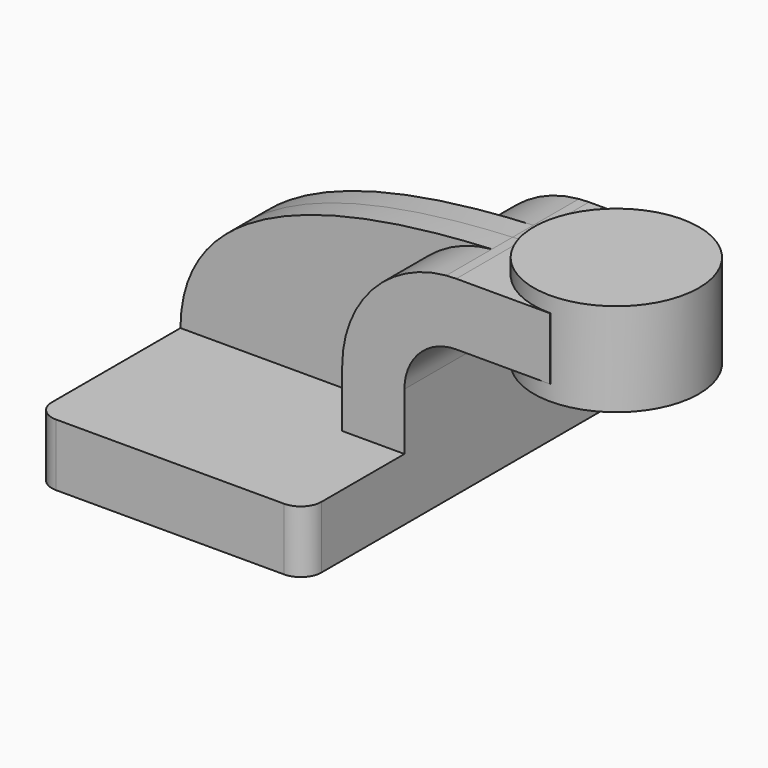
from build123d import *

# Parameters (mm, degrees)
F1_DEPTH = 63.5
F0_W     = 25.5134466434
F0_H     = 19.05
F2_DEPTH = 25.4
F3_DEPTH = 7.9375
F5_R     = 6.35


with BuildPart() as f1:
    # F0 (on Front) → F1 (new body, symmetric)
    with BuildSketch(Plane.XZ):
        Polygon((-41.275, -9.525), (41.275, -9.525), (41.275, 9.525), (22.225, 9.525), (-41.275, 9.525), align=None)
    extrude(amount=F1_DEPTH, both=True)

    # F0 (on Front) → F2 (join, symmetric)
    with BuildSketch(Plane.XZ):
        with BuildLine():
            Line((22.225, 9.525), (41.275, 9.525))
            Line((41.275, 9.525), (41.275, 12.7119745847))
            Line((41.275, 12.7119745847), (41.275, 27.0002))
            ThreePointArc((41.275, 27.0002), (45.9246798487, 38.2255201513), (57.15, 42.8752))
            Line((57.15, 42.8752), (60.325, 42.8752))
            Line((60.325, 42.8752), (60.325, 61.9252))
            Line((60.325, 61.9252), (57.15, 61.9252))
            add(Edge.make_bspline(
                [(54.0725699176, 61.7893513131), (55.1039994103, 61.839092438), (56.1300922565, 61.8842720565), (57.15, 61.9252)],
                knots=[108.8885339736, 108.8885339736, 108.8885339736, 108.8885339736, 111.5045361635, 111.5045361635, 111.5045361635, 111.5045361635], degree=3))
            ThreePointArc((54.0725699176, 61.7893513131), (31.3892268107, 50.5827823371), (22.225, 27.0002))
            Line((22.225, 27.0002), (22.225, 12.7119745847))
            Line((22.225, 12.7119745847), (22.225, 9.525))
        make_face()
        with Locations((73.0817233217, 52.4002)):
            Rectangle(F0_W, F0_H)
    extrude(amount=F2_DEPTH, both=True)

    # F0 (on Front) → F3 (join, symmetric)
    with BuildSketch(Plane.XZ):
        with BuildLine():
            add(Edge.make_bspline(
                [(-41.275, 9.525), (-41.0379751962, 49.7454198065), (11.1403255218, 59.7189256133), (54.0725699176, 61.7893513131)],
                knots=[0, 0, 0, 0, 108.8885339736, 108.8885339736, 108.8885339736, 108.8885339736], degree=3))
            Line((-41.275, 9.525), (22.225, 9.525))
            Line((22.225, 9.525), (22.225, 12.7119745847))
            Line((22.225, 12.7119745847), (22.225, 27.0002))
            ThreePointArc((22.225, 27.0002), (31.3892268107, 50.5827823371), (54.0725699176, 61.7893513131))
        make_face()
    extrude(amount=F3_DEPTH, both=True)

    # F0 (on Front) → F4 (revolve)
    with BuildSketch(Plane.XZ):
        Polygon((85.8384466434, 66.675), (85.8384466434, 61.9252), (85.8384466434, 42.8752), (85.8384466434, 38.1), (111.125, 38.1), (111.125, 66.675), align=None)
    revolve(axis=Axis((85.8384466434, 0, 52.3875), (0, 0, 1)))

    # F5
    f5_edges = [f1.edges().sort_by_distance(p)[0] for p in [
        (41.275, -63.5, 0),
        (-41.275, -63.5, 0),
        (-41.275, 63.5, 0),
        (41.275, 63.5, 0),
    ]]
    fillet(f5_edges, radius=F5_R)


solid = f1.part
